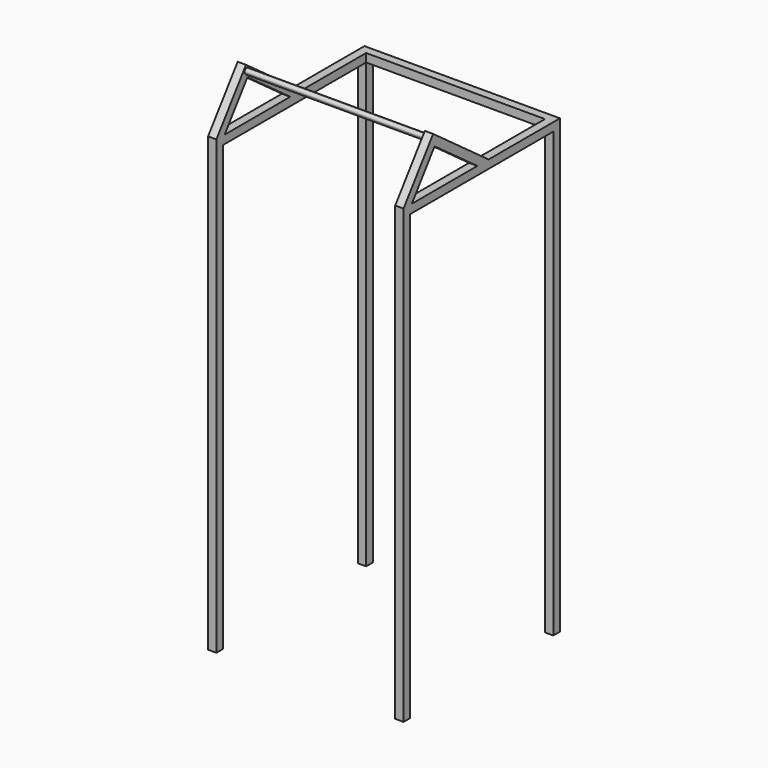
from build123d import *

# Parameters (mm, degrees)
F0_W     = 38.1
F0_H     = 38.1
F1_DEPTH = 2032
F2_W     = 38.1
F2_H     = 38.1
F3_DEPTH = 38.1
F5_DEPTH = 38.1
F7_DEPTH = 38.1
F9_DEPTH = 819.15


with BuildPart() as f1:
    # F0 (on Top) → F1 (new body)
    with BuildSketch(Plane.XY):
        with Locations((0, 857.25)):
            Rectangle(F0_W, F0_H)
        with Locations((857.25, 857.25)):
            Rectangle(F0_W, F0_H)
        Rectangle(F0_W, F0_H)
        with Locations((857.25, 0)):
            Rectangle(F0_W, F0_H)
    extrude(amount=F1_DEPTH)

    # F2 (on face) → F3 (join)
    with BuildSketch(Plane.XY.offset(2032)):
        Polygon((-19.05, 876.3), (-19.05, 19.05), (19.05, 19.05), (19.05, 838.2), (838.2, 838.2), (838.2, -19.05), (876.3, -19.05), (876.3, 876.3), align=None)
        Rectangle(F2_W, F2_H)
    extrude(amount=F3_DEPTH)

    # F4 (on face) → F5 (join)
    with BuildSketch(Plane(origin=(-19.05, 0, 0), x_dir=(0, -1, 0), z_dir=(-1, 0, 0))):
        Polygon((-28.131318, 2070.1), (19.05, 2070.1), (-150.456127, 2302.164652), (-468.167371, 2070.1), (-403.573152, 2070.1), (-158.75, 2248.925271), align=None)
    extrude(amount=-F5_DEPTH)

    # F6 (on face) → F7 (join, through all)
    with BuildSketch(Plane.YZ.offset(876.3)):
        Polygon((468.167371, 2070.1), (150.456127, 2302.164652), (-19.05, 2070.1), (28.131318, 2070.1), (158.75, 2248.925271), (403.573152, 2070.1), align=None)
    extrude(amount=-F7_DEPTH)


with BuildPart() as f9:
    # F8 (on face) → F9 (new body, through all)
    with BuildSketch(Plane(origin=(838.2, 0, 0), x_dir=(0, -1, 0), z_dir=(-1, 0, 0))):
        with BuildLine():
            ThreePointArc((-156.557948, 2262.996319), (-146.342828, 2265.898277), (-141.903063, 2275.544961))
            ThreePointArc((-141.903063, 2275.544961), (-144.956379, 2283.805196), (-152.648179, 2288.093604))
            Line((-152.648179, 2288.093604), (-156.557948, 2262.996319))
        make_face()
        with BuildLine():
            Line((-156.557948, 2262.996319), (-152.648179, 2288.093604))
            ThreePointArc((-152.648179, 2288.093604), (-167.151706, 2277.499846), (-156.557948, 2262.996319))
        make_face()
    extrude(amount=F9_DEPTH)


solid = Compound([f1.part, f9.part])
